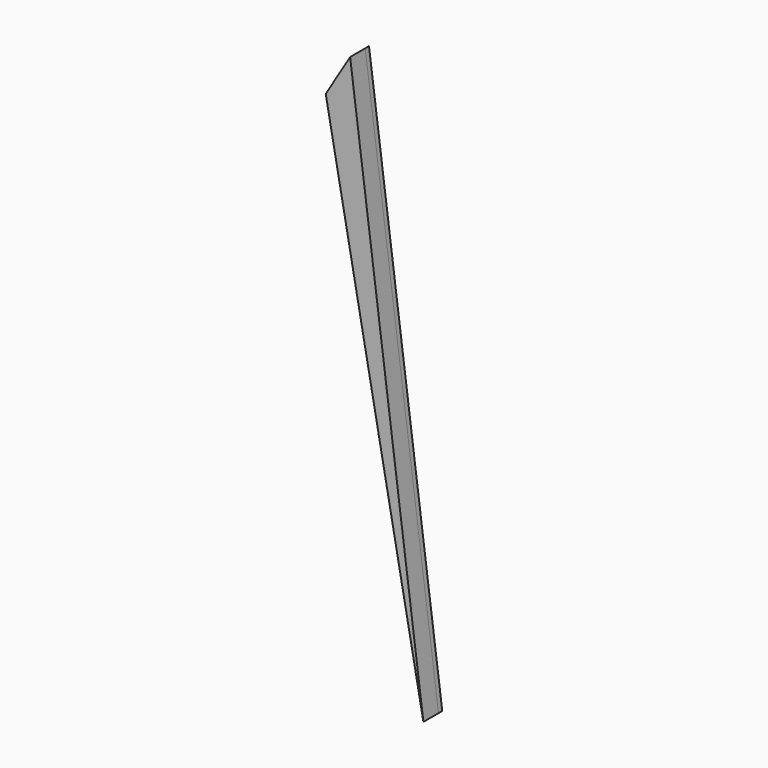
from build123d import *

# Parameters (mm, degrees)
F1_DEPTH = 127
F2_DEPTH = 25.4


with BuildPart() as f1:
    # F0 (on Front) → F1 (new body)
    with BuildSketch(Plane.XZ):
        Polygon((1026.69921, -1714.425091), (632.456534, 1307.970765), (501.16248, 1090.536013), align=None)
    extrude(amount=F1_DEPTH)


with BuildPart() as f2:
    # F0 (on Front) → F2 (new body)
    with BuildSketch(Plane.XZ):
        Polygon((1026.69921, -1714.425091), (632.456534, 1307.970765), (501.16248, 1090.536013), align=None)
    extrude(amount=F2_DEPTH)


solid = Compound([f1.part, f2.part])
